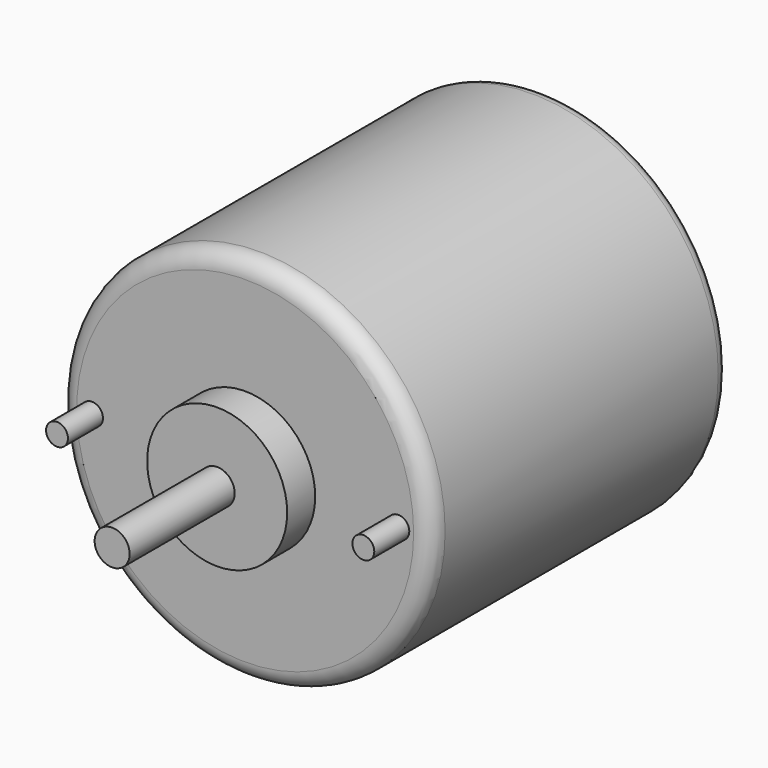
from build123d import *

# Parameters (mm, degrees)
SKETCH005_R  = 42.5
PAD005_DEPTH = 85
FILLET_R     = 4
FILLET001_R  = 3
SKETCH006_R  = 16
PAD006_DEPTH = 8
SKETCH007_R  = 4
PAD007_DEPTH = 30
SKETCH008_R  = 2.5
PAD008_DEPTH = 10
PAD009_DEPTH = 7
SKETCH010_R  = 16
PAD010_DEPTH = 10


with BuildPart() as part:
    # Sketch005 → Pad005 (new body)
    with BuildSketch(Plane.XZ):
        Circle(SKETCH005_R)
    extrude(amount=-PAD005_DEPTH)

    # Fillet
    fillet_edges = [part.edges().sort_by_distance(p)[0] for p in [
        (-42.5, 0, 0),
    ]]
    fillet(fillet_edges, radius=FILLET_R)

    # Fillet001
    fillet001_edges = [part.edges().sort_by_distance(p)[0] for p in [
        (-42.5, 85, 0),
    ]]
    fillet(fillet001_edges, radius=FILLET001_R)

    # Sketch006 (on Face5 of Fillet001) → Pad006 (new body)
    with BuildSketch(Plane.XZ):
        Circle(SKETCH006_R)
    extrude(amount=PAD006_DEPTH)

    # Sketch007 (on Face7 of Pad006) → Pad007 (new body)
    with BuildSketch(Plane.XZ.offset(8)):
        Circle(SKETCH007_R)
    extrude(amount=PAD007_DEPTH)

    # Sketch008 (on Face5 of Pad007) → Pad008 (new body)
    with BuildSketch(Plane.XZ):
        with Locations((-35, 0)):
            Circle(SKETCH008_R)
        with Locations((35, 0)):
            Circle(SKETCH008_R)
    extrude(amount=PAD008_DEPTH)

    # Sketch009 (on Face4 of Pad008) → Pad009 (new body)
    with BuildSketch(Plane(origin=(0, 85, 0), x_dir=(1, 0, 0), z_dir=(0, 1, 0))):
        with BuildLine():
            Line((-20.512191, 20.5), (20.512191, 20.5))
            ThreePointArc((20.512191, -20.5), (29, 0), (20.512191, 20.5))
            Line((-20.512191, -20.5), (20.512191, -20.5))
            ThreePointArc((-20.512191, 20.5), (-29, 0), (-20.512191, -20.5))
        make_face()
    extrude(amount=PAD009_DEPTH)

    # Sketch010 (on Face13 of Pad009) → Pad010 (new body)
    with BuildSketch(Plane(origin=(0, 92, 0), x_dir=(1, 0, 0), z_dir=(0, 1, 0))):
        Circle(SKETCH010_R)
    extrude(amount=PAD010_DEPTH)


solid = part.part
